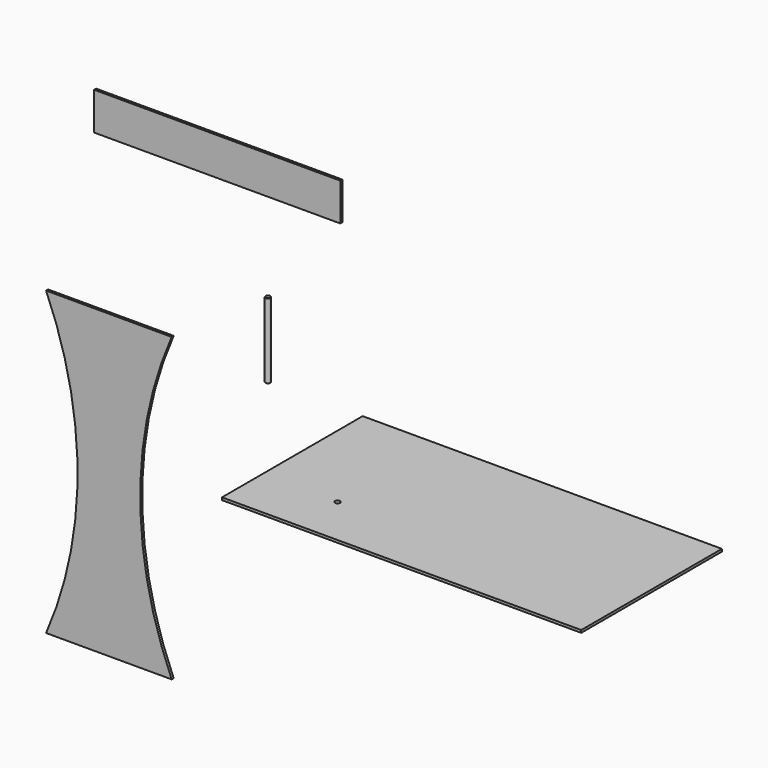
from build123d import *

# Parameters (mm, degrees)
F0_W     = 1430
F0_H     = 700
F0_R     = 10
F1_DEPTH = 10
F3_DEPTH = 10
F4_W     = 980
F4_H     = 150
F5_DEPTH = 10
F6_R     = 10
F7_DEPTH = 300
F8_SIZE  = 1.5


with BuildPart() as f1:
    # F0 (on Top) → F1 (new body)
    with BuildSketch(Plane.XY):
        Rectangle(F0_W, F0_H)
        with Locations((-415, -150)):
            Circle(F0_R, mode=Mode.SUBTRACT)
    extrude(amount=F1_DEPTH)


with BuildPart() as f3:
    # F2 (on Front) → F3 (new body)
    with BuildSketch(Plane.XZ):
        with BuildLine():
            Line((-1687.185126, -919.878876), (-1187.185126, -919.878876))
            ThreePointArc((-1187.185126, -919.878876), (-1312.412418, -319.878876), (-1187.185126, 280.121124))
            Line((-1187.185126, 280.121124), (-1687.185126, 280.121124))
            ThreePointArc((-1687.185126, 280.121124), (-1561.957835, -319.878876), (-1687.185126, -919.878876))
        make_face()
    extrude(amount=F3_DEPTH)


with BuildPart() as f5:
    # F4 (on Front) → F5 (new body)
    with BuildSketch(Plane.XZ):
        with Locations((-1006.073756, 971.041918)):
            Rectangle(F4_W, F4_H)
    extrude(amount=F5_DEPTH)


with BuildPart() as f7:
    # F6 (on Top) → F7 (new body)
    with BuildSketch(Plane.XY):
        with Locations((-1099.319458, 359.052002)):
            Circle(F6_R)
    extrude(amount=F7_DEPTH)

    # F8
    f8_edges = [f7.edges().sort_by_distance(p)[0] for p in [
        (-1109.319458, 359.052002, 300),
        (-1109.319458, 359.052002, 0),
    ]]
    chamfer(f8_edges, length=F8_SIZE)


solid = Compound([f1.part, f3.part, f5.part, f7.part])
